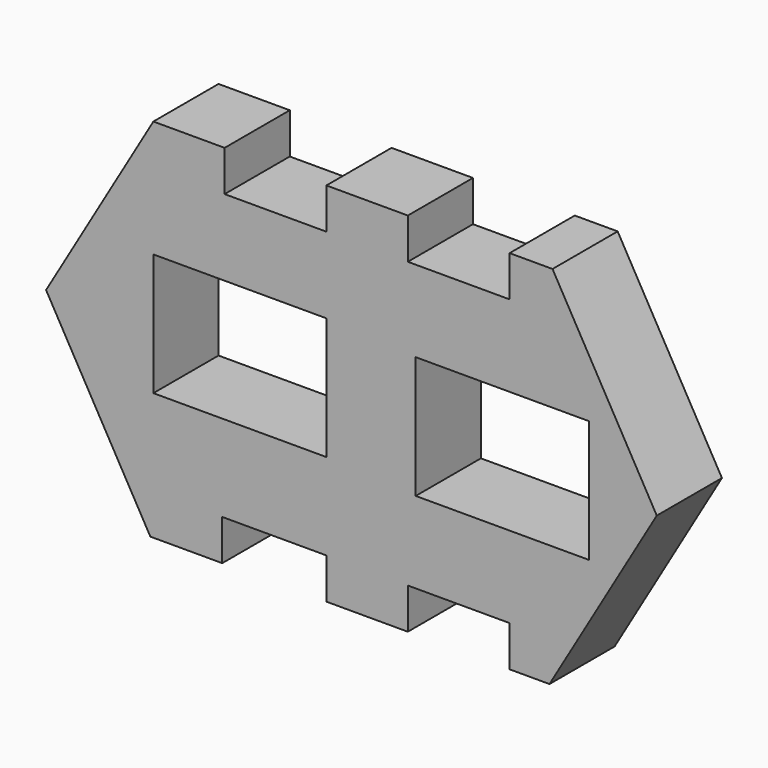
from build123d import *

# Parameters (mm, degrees)
F1_DEPTH = 25.4


with BuildPart() as f1:
    # F0 (on Front) → F1 (new body)
    with BuildSketch(Plane.XZ):
        Polygon((-41.2195250034, 60.3447593749), (-63.4445250034, 60.3447593749), (-64.4639437478, 58.6040624199), (-96.9131098717, 3.1958555594), (-64.3884492879, -53.953048256), (-41.960131377, -53.953048256), (-41.960131377, -41.253048256), (-9.4695250034, -41.253048256), (-9.4695250034, -53.953048256), (15.9304749966, -53.953048256), (15.9304749966, -41.253048256), (47.6804749966, -41.253048256), (47.6804749966, -53.953048256), (60.11830526, -53.953048256), (93.5868901283, 3.1958555594), (61.0622295445, 60.3447593749), (47.6804749966, 60.3447593749), (47.6804749966, 47.6447593749), (15.9304749966, 47.6447593749), (15.9304749966, 60.3447593749), (-9.4695250034, 60.3447593749), (-9.4695250034, 47.6447593749), (-41.2195250034, 47.6447593749), align=None)
        Polygon((-53.7397041917, 23.8567902654), (-9.4695250034, 23.8567902654), (-9.4695250034, -14.2432097346), (-63.4445250034, -14.2432097346), (-63.4445250034, 23.8567902654), align=None, mode=Mode.SUBTRACT)
        Polygon((18.3994676918, -15.853048256), (18.3994676918, 22.246951744), (56.8952597678, 22.246951744), (72.3744676918, 22.246951744), (72.3744676918, -15.853048256), align=None, mode=Mode.SUBTRACT)
    extrude(amount=F1_DEPTH)


solid = f1.part
